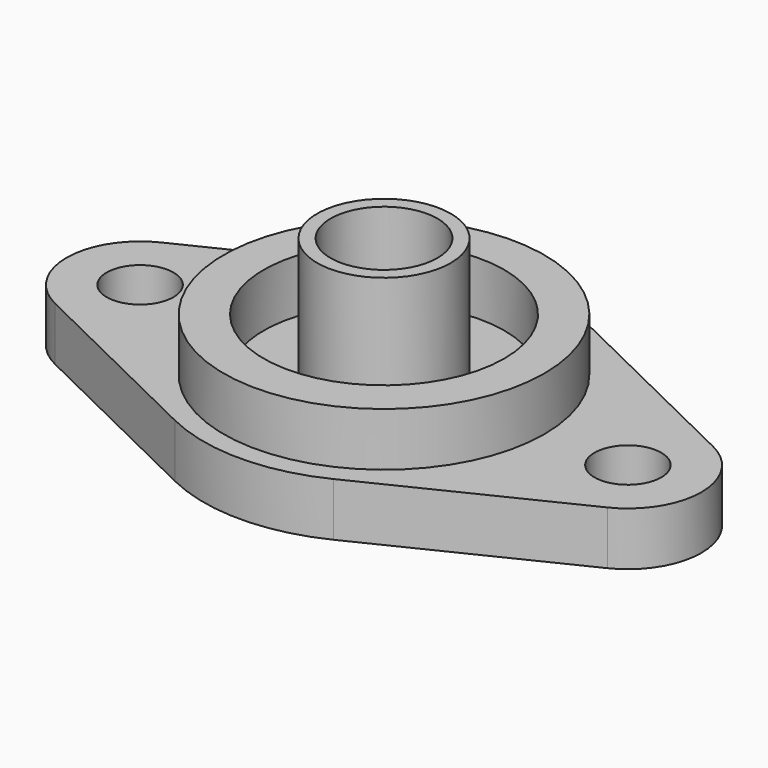
from build123d import *

# Parameters (mm, degrees)
SKETCH_R      = 2.5
PAD_DEPTH     = 4
SKETCH001_R   = 5
PAD001_DEPTH  = 9
SKETCH002_R   = 4
POCKET_DEPTH  = 13.001
SKETCH003_R   = 12
SKETCH003_R_2 = 9
PAD002_DEPTH  = 4


with BuildPart() as part:
    # Sketch → Pad (new body)
    with BuildSketch(Plane.XY):
        with BuildLine():
            ThreePointArc((-20.660959, 4.943407), (-23.75, 0), (-20.660959, -4.943407))
            Line((-5.917808, -12.133818), (-20.660959, -4.943407))
            ThreePointArc((-5.917808, -12.133818), (0, -13.5), (5.917808, -12.133818))
            Line((20.660959, -4.943407), (5.917808, -12.133818))
            ThreePointArc((20.660959, -4.943407), (23.75, 0), (20.660959, 4.943407))
            Line((5.917808, 12.133818), (20.660959, 4.943407))
            ThreePointArc((5.917808, 12.133818), (0, 13.5), (-5.917808, 12.133818))
            Line((-20.660959, 4.943407), (-5.917808, 12.133818))
        make_face()
        with Locations((-18.25, 0)):
            Circle(SKETCH_R, mode=Mode.SUBTRACT)
        with Locations((18.25, 0)):
            Circle(SKETCH_R, mode=Mode.SUBTRACT)
    extrude(amount=PAD_DEPTH)

    # Sketch001 (on Face12 of Pad) → Pad001 (join)
    with BuildSketch(Plane.XY.offset(4)):
        Circle(SKETCH001_R)
    extrude(amount=PAD001_DEPTH)

    # Sketch002 (on Face14 of Pad001) → Pocket (cut, through all)
    with BuildSketch(Plane.XY.offset(13)):
        Circle(SKETCH002_R)
    extrude(amount=-POCKET_DEPTH, mode=Mode.SUBTRACT)

    # Sketch003 (on Face5 of Pocket) → Pad002 (join)
    with BuildSketch(Plane.XY.offset(4)):
        Circle(SKETCH003_R)
        Circle(SKETCH003_R_2, mode=Mode.SUBTRACT)
    extrude(amount=PAD002_DEPTH)


solid = part.part
